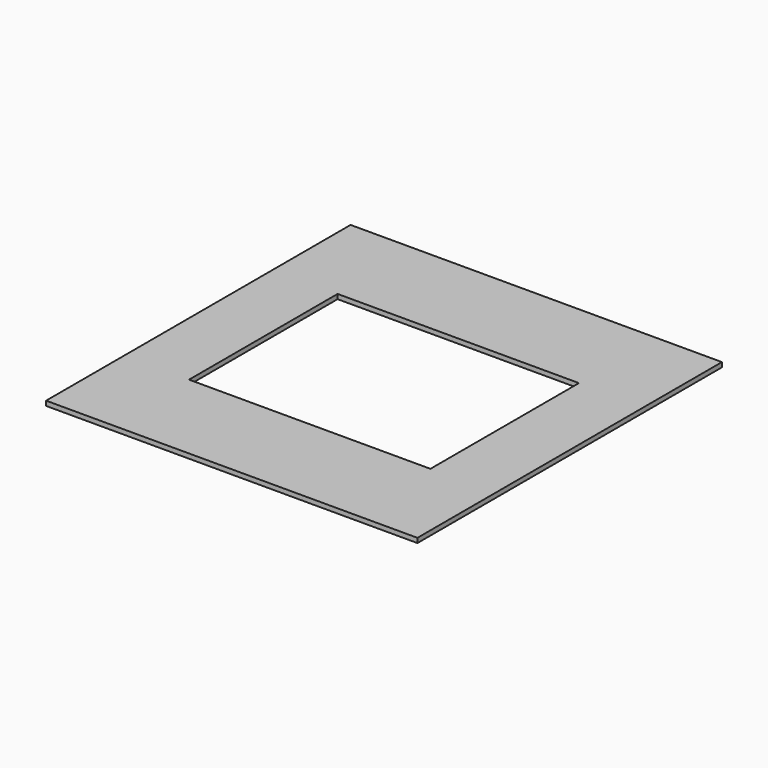
from build123d import *

# Parameters (mm, degrees)
SKETCH_W   = 80
SKETCH_H   = 82
SKETCH_W_2 = 52
SKETCH_H_2 = 40
PAD_DEPTH  = 1


with BuildPart() as part:
    # Sketch → Pad (new body)
    with BuildSketch(Plane.XY):
        with Locations((40, 41)):
            Rectangle(SKETCH_W, SKETCH_H)
        with Locations((40, 41)):
            Rectangle(SKETCH_W_2, SKETCH_H_2, mode=Mode.SUBTRACT)
    extrude(amount=PAD_DEPTH)


solid = part.part
